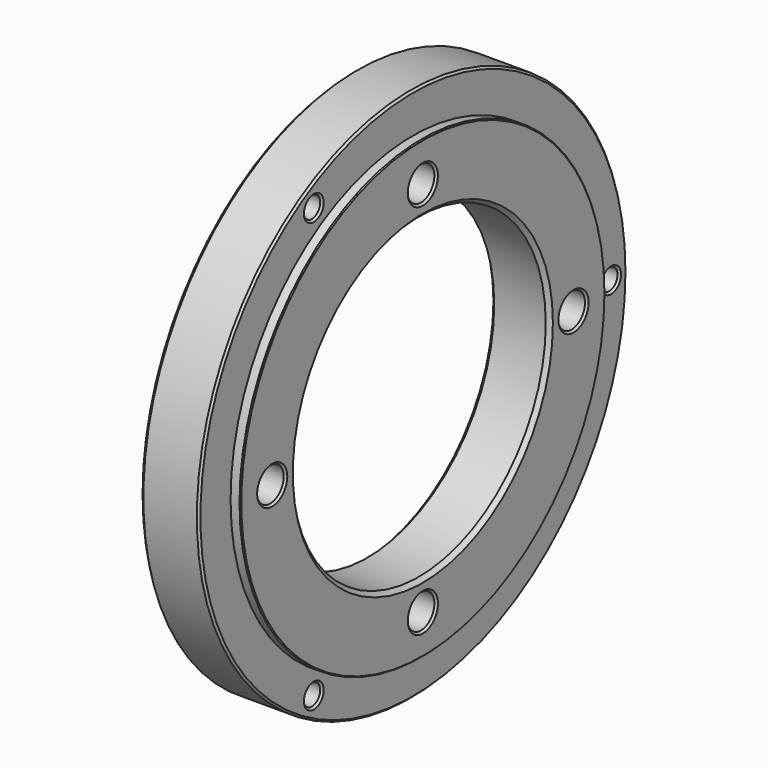
from build123d import *

# Parameters (mm, degrees)
F2_R     = 6
F3_DEPTH = 30.001
F4_R     = 8.5
F5_DEPTH = 12
F6_R     = 5.25
F7_DEPTH = 24
F8_SIZE  = 2
F9_SIZE  = 1
F10_SIZE = 0.5


with BuildPart() as f1:
    # F0 (on Top) → F1 (revolve)
    with BuildSketch(Plane.XY):
        Polygon((-30, 80), (0, 80), (0, 115), (-5, 115), (-5, 135), (-35, 135), (-35, 127.5), (-30, 127.5), align=None)
    revolve(axis=Axis((-42.337157, 0, 0), (-1, 0, 0)))

    # F2 (on face) → F3 (cut, through all)
    with BuildSketch(Plane(origin=(-30, 0, 0), x_dir=(0, -1, 0), z_dir=(-1, 0, 0))):
        with Locations((-95, 0)):
            Circle(F2_R)
        with Locations((0, -95)):
            Circle(F2_R)
        with Locations((95, 0)):
            Circle(F2_R)
        with Locations((0, 95)):
            Circle(F2_R)
    extrude(amount=-F3_DEPTH, mode=Mode.SUBTRACT)

    # F4 (on face) → F5 (cut)
    with BuildSketch(Plane.YZ):
        with Locations((0, -95)):
            Circle(F4_R)
        with Locations((95, 0)):
            Circle(F4_R)
        with Locations((0, 95)):
            Circle(F4_R)
        with Locations((-95, 0)):
            Circle(F4_R)
    extrude(amount=-F5_DEPTH, mode=Mode.SUBTRACT)

    # F6 (on face) → F7 (cut)
    with BuildSketch(Plane.YZ.offset(-5)):
        with Locations((125, 0)):
            Circle(F6_R)
        with Locations((-62.5, 108.253175)):
            Circle(F6_R)
        with Locations((-62.5, -108.253175)):
            Circle(F6_R)
    extrude(amount=-F7_DEPTH, mode=Mode.SUBTRACT)

    # F8
    f8_edges = [f1.edges().sort_by_distance(p)[0] for p in [
        (-30, -80, 0),
        (-35, -135, 0),
        (0, -80, 0),
    ]]
    chamfer(f8_edges, length=F8_SIZE)

    # F9
    f9_edges = [f1.edges().sort_by_distance(p)[0] for p in [
        (-35, -127.5, 0),
        (-30, 6, -95),
        (-30, 101, 0),
        (-30, 6, 95),
        (-30, -89, 0),
        (0, -8.5, 95),
        (0, 86.5, 0),
        (0, -8.5, -95),
        (0, -103.5, 0),
        (-5, 119.75, 0),
        (-5, -67.75, 108.253175),
        (-5, -67.75, -108.253175),
        (-5, -135, 0),
    ]]
    chamfer(f9_edges, length=F9_SIZE)

    # F10
    f10_edges = [f1.edges().sort_by_distance(p)[0] for p in [
        (0, -115, 0),
    ]]
    chamfer(f10_edges, length=F10_SIZE)


solid = f1.part
